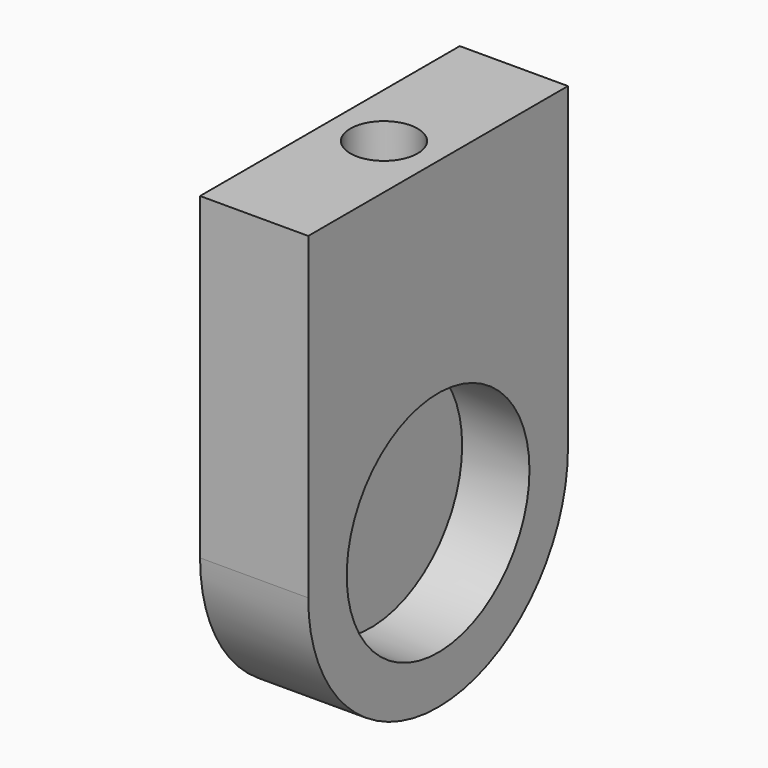
from build123d import *

# Parameters (mm, degrees)
F0_R      = 6.0325
F1_DEPTH  = 3.556
F1_FACE_R = 6.0325
F2_DEPTH  = 2.159
F3_R      = 1.778
F4_DEPTH  = 6.35


with BuildPart() as f1:
    # F0 (on Right) → F1 (new body)
    with BuildSketch(Plane.YZ):
        with BuildLine():
            ThreePointArc((-8.5725, 0), (0, -8.5725), (8.5725, 0))
            ThreePointArc((8.5725, 0), (0, 8.5725), (-8.5725, 0))
        make_face()
        Circle(F0_R, mode=Mode.SUBTRACT)
        with BuildLine():
            ThreePointArc((-8.5725, 0), (0, 8.5725), (8.5725, 0))
            Line((8.5725, 0), (8.5725, 16.8275))
            Line((8.5725, 16.8275), (-8.5725, 16.8275))
            Line((-8.5725, 16.8275), (-8.5725, 0))
        make_face()
    extrude(amount=F1_DEPTH)

    # F1_face (on face) + F0 (on Right) → F2 (join)
    with BuildSketch(Plane(origin=(0, 0, 6.9314125223), x_dir=(0, 1, 0), z_dir=(-1, 0, 0))):
        with BuildLine():
            ThreePointArc((8.5725, 6.9314125223), (0, 15.5039125223), (-8.5725, 6.9314125223))
            Line((-8.5725, 6.9314125223), (-8.5725, -9.8960874777))
            Line((-8.5725, -9.8960874777), (8.5725, -9.8960874777))
            Line((8.5725, -9.8960874777), (8.5725, 6.9314125223))
        make_face()
        with Locations((0, 6.9314125223)):
            Circle(F1_FACE_R, mode=Mode.SUBTRACT)
    with BuildSketch(Plane.YZ):
        Circle(F0_R)
    extrude(amount=F2_DEPTH, dir=(-1, 0, 0))

    # F3 (on face) → F4 (cut)
    with BuildSketch(Plane.XY.offset(16.8275)):
        with Locations((0.6985, 0)):
            Circle(F3_R)
    extrude(amount=-F4_DEPTH, mode=Mode.SUBTRACT)


solid = f1.part
